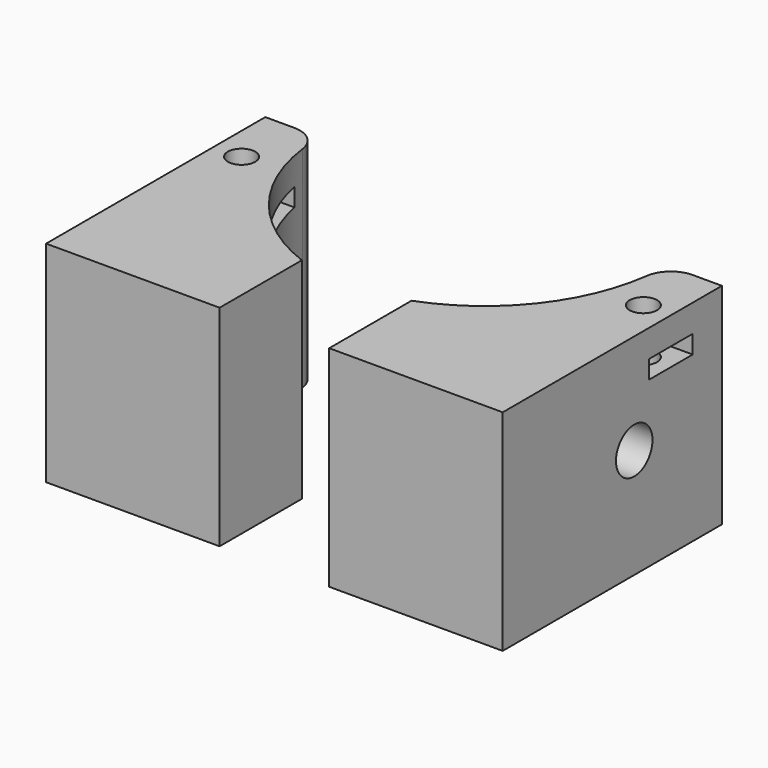
from build123d import *

# Parameters (mm, degrees)
CYLINDER931_R     = 1.5
CYLINDER931_DEPTH = 30
CYLINDER930_R     = 1.5
CYLINDER930_DEPTH = 30
BOX437_W          = 16
BOX437_H          = 6
BOX437_DEPTH      = 2
BOX440_W          = 16
BOX440_H          = 6
BOX440_DEPTH      = 2
CYLINDER923_R     = 5
CYLINDER923_DEPTH = 20
CYLINDER926_R     = 5
CYLINDER926_DEPTH = 20
CYLINDER927_R     = 2.5
CYLINDER927_DEPTH = 2
CYLINDER929_R     = 2.5
CYLINDER929_DEPTH = 2
CYLINDER924_R     = 2.5
CYLINDER924_DEPTH = 150
CYLINDER925_R     = 20
CYLINDER925_DEPTH = 23
BOX438_W          = 19
BOX438_H          = 30
BOX438_DEPTH      = 23
CYLINDER928_R     = 20
CYLINDER928_DEPTH = 23
BOX439_W          = 19
BOX439_H          = 30
BOX439_DEPTH      = 23
FILLET045_R       = 3


with BuildPart() as obj1:
    # Cylinder931 → Cylinder931 (new body)
    with BuildSketch(Plane(origin=(22, 65, 51), x_dir=(1, 0, 0), z_dir=(0, 0, 1))):
        Circle(CYLINDER931_R)
    extrude(amount=CYLINDER931_DEPTH)


with BuildPart() as compound802:
    # Cylinder930 → Cylinder930 (new body)
    with BuildSketch(Plane(origin=(-22, 65, 51), x_dir=(1, 0, 0), z_dir=(0, 0, 1))):
        Circle(CYLINDER930_R)
    extrude(amount=CYLINDER930_DEPTH)

    # Compound802: union obj1
    add(obj1.part)


with BuildPart() as krychle437:
    # Box437 → Box437 (new body)
    with BuildSketch(Plane(origin=(16, 62, 55), x_dir=(1, 0, 0), z_dir=(0, 0, 1))):
        with Locations((8, 3)):
            Rectangle(BOX437_W, BOX437_H)
    extrude(amount=BOX437_DEPTH)


with BuildPart() as compound798:
    # Box440 → Box440 (new body)
    with BuildSketch(Plane(origin=(-31, 62, 55), x_dir=(1, 0, 0), z_dir=(0, 0, 1))):
        with Locations((8, 3)):
            Rectangle(BOX440_W, BOX440_H)
    extrude(amount=BOX440_DEPTH)

    # Compound798: union Krychle437
    add(krychle437.part)


with BuildPart() as obj2:
    # Cylinder923 → Cylinder923 (new body)
    with BuildSketch(Plane(origin=(1, 56, 49), x_dir=(0, 0, -1), z_dir=(1, 0, 0))):
        Circle(CYLINDER923_R)
    extrude(amount=CYLINDER923_DEPTH)


with BuildPart() as compound800:
    # Cylinder926 → Cylinder926 (new body)
    with BuildSketch(Plane(origin=(-21, 56, 49), x_dir=(0, 0, -1), z_dir=(1, 0, 0))):
        Circle(CYLINDER926_R)
    extrude(amount=CYLINDER926_DEPTH)

    # Compound800: union obj2
    add(obj2.part)


with BuildPart() as compound800_1:
    # Compound800 placement: moved
    add(compound800.part.moved(Location((0, 4, 0))))


with BuildPart() as obj3:
    # Cylinder927 → Cylinder927 (new body)
    with BuildSketch(Plane(origin=(-80, 38, 18), x_dir=(0, 0, -1), z_dir=(1, 0, 0))):
        Circle(CYLINDER927_R)
    extrude(amount=CYLINDER927_DEPTH)


with BuildPart() as obj4:
    # Cylinder929 → Cylinder929 (new body)
    with BuildSketch(Plane(origin=(80, 38, 18), x_dir=(0, 0, -1), z_dir=(1, 0, 0))):
        Circle(CYLINDER929_R)
    extrude(amount=CYLINDER929_DEPTH)


with BuildPart() as compound799:
    # Cylinder924 → Cylinder924 (new body)
    with BuildSketch(Plane(origin=(-57, 56, 18), x_dir=(0, 0, -1), z_dir=(1, 0, 0))):
        Circle(CYLINDER924_R)
    extrude(amount=CYLINDER924_DEPTH)

    # Compound799: union obj3, obj4
    add(obj3.part)
    add(obj4.part)


with BuildPart() as compound799_1:
    # Compound799 placement: moved
    add(compound799.part.moved(Location((-1, 4, 31))))


with BuildPart() as obj5:
    # Cylinder925 → Cylinder925 (new body)
    with BuildSketch(Plane(origin=(1, 72, 37), x_dir=(1, 0, 0), z_dir=(0, 0, 1))):
        Circle(CYLINDER925_R)
    extrude(amount=CYLINDER925_DEPTH)


with BuildPart() as cut390:
    # Box438 → Box438 (new body)
    with BuildSketch(Plane(origin=(-25, 42, 37), x_dir=(1, 0, 0), z_dir=(0, 0, 1))):
        with Locations((9.5, 15)):
            Rectangle(BOX438_W, BOX438_H)
    extrude(amount=BOX438_DEPTH)

    # Cut390: cut obj5
    add(obj5.part, mode=Mode.SUBTRACT)


with BuildPart() as obj6:
    # Cylinder928 → Cylinder928 (new body)
    with BuildSketch(Plane(origin=(-1, 72, 37), x_dir=(1, 0, 0), z_dir=(0, 0, 1))):
        Circle(CYLINDER928_R)
    extrude(amount=CYLINDER928_DEPTH)


with BuildPart() as fillet045:
    # Box439 → Box439 (new body)
    with BuildSketch(Plane(origin=(6, 42, 37), x_dir=(1, 0, 0), z_dir=(0, 0, 1))):
        with Locations((9.5, 15)):
            Rectangle(BOX439_W, BOX439_H)
    extrude(amount=BOX439_DEPTH)

    # Cut391: cut obj6
    add(obj6.part, mode=Mode.SUBTRACT)

    # Compound801: union Cut390
    add(cut390.part)

    # Cut389: cut Compound799
    add(compound799_1.part, mode=Mode.SUBTRACT)

    # Cut392: cut Compound800
    add(compound800_1.part, mode=Mode.SUBTRACT)

    # Cut388: cut Compound798
    add(compound798.part, mode=Mode.SUBTRACT)

    # Cut394: cut Compound802
    add(compound802.part, mode=Mode.SUBTRACT)

    # Fillet045
    fillet045_edges = [fillet045.edges().sort_by_distance(p)[0] for p in [
        (19, 72, 48.5),
        (-19, 72, 48.5),
    ]]
    fillet(fillet045_edges, radius=FILLET045_R)


solid = fillet045.part
